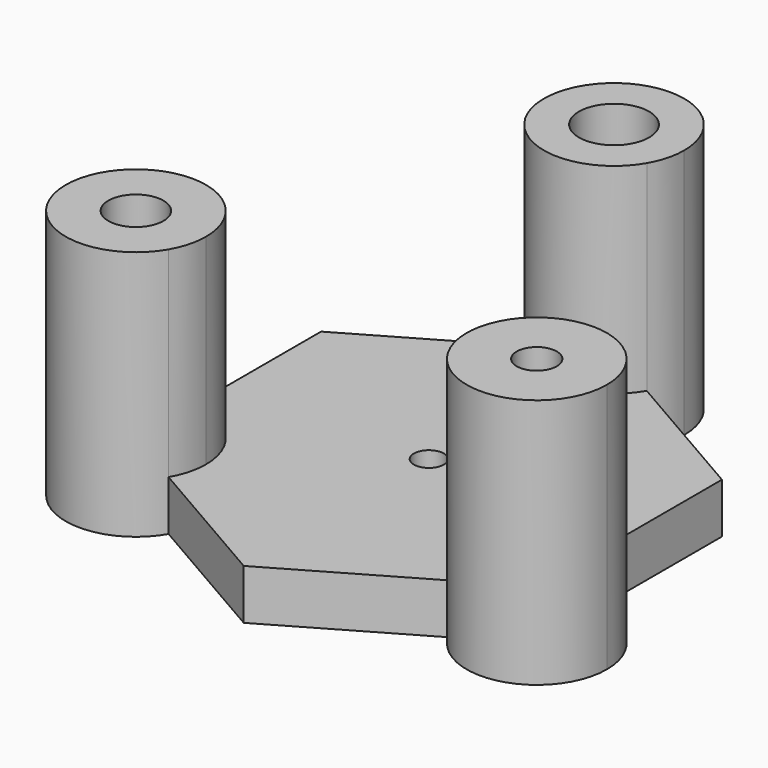
from build123d import *

# Parameters (mm, degrees)
F1_DEPTH = 5
F2_DEPTH = 25
F3_D     = 7
F4_D     = 5.5
F5_D     = 4
F6_D     = 3


with BuildPart() as f1:
    # F0 (on Top) → F1 (new body)
    with BuildSketch(Plane.XY):
        with BuildLine():
            Line((20, -4.5470053838), (20, 11.5470053838))
            Line((20, 11.5470053838), (6.0621778265, 19.5940107676))
            ThreePointArc((6.0621778265, 19.5940107676), (0, 16.0940107676), (-6.0621778265, 19.5940107676))
            Line((-6.0621778265, 19.5940107676), (-20, 11.5470053838))
            Line((-20, 11.5470053838), (-20, -4.5470053838))
            ThreePointArc((-20, -4.5470053838), (-15.0502525317, -6.5972579155), (-13, -11.5470053838))
            ThreePointArc((-13, -11.5470053838), (-13.238519216, -13.3587386995), (-13.9378221735, -15.0470053838))
            Line((-13.9378221735, -15.0470053838), (0, -23.0940107676))
            Line((0, -23.0940107676), (13.9378221735, -15.0470053838))
            ThreePointArc((13.9378221735, -15.0470053838), (13.9378221735, -8.0470053838), (20, -4.5470053838))
        make_face()
    extrude(amount=F1_DEPTH)

    # F0 (on Top) → F2 (join)
    with BuildSketch(Plane.XY):
        with BuildLine():
            ThreePointArc((-20, -4.5470053838), (-26.0621778265, -15.0470053838), (-13.9378221735, -15.0470053838))
            Line((-13.9378221735, -15.0470053838), (-20, -11.5470053838))
            Line((-20, -11.5470053838), (-20, -4.5470053838))
        make_face()
        with BuildLine():
            Line((-20, -11.5470053838), (-13.9378221735, -15.0470053838))
            ThreePointArc((-13.9378221735, -15.0470053838), (-13.238519216, -13.3587386995), (-13, -11.5470053838))
            ThreePointArc((-13, -11.5470053838), (-15.0502525317, -6.5972579155), (-20, -4.5470053838))
            Line((-20, -4.5470053838), (-20, -11.5470053838))
        make_face()
        with BuildLine():
            Line((0, 23.0940107676), (6.0621778265, 19.5940107676))
            ThreePointArc((6.0621778265, 19.5940107676), (6.761480784, 21.2822774519), (7, 23.0940107676))
            ThreePointArc((7, 23.0940107676), (-1.8117333157, 29.8554915516), (-6.0621778265, 19.5940107676))
            Line((-6.0621778265, 19.5940107676), (0, 23.0940107676))
        make_face()
        with BuildLine():
            ThreePointArc((-6.0621778265, 19.5940107676), (0, 16.0940107676), (6.0621778265, 19.5940107676))
            Line((6.0621778265, 19.5940107676), (0, 23.0940107676))
            Line((0, 23.0940107676), (-6.0621778265, 19.5940107676))
        make_face()
        with BuildLine():
            ThreePointArc((27, -11.5470053838), (24.9497474683, -6.5972579155), (20, -4.5470053838))
            Line((20, -4.5470053838), (20, -11.5470053838))
            Line((20, -11.5470053838), (13.9378221735, -15.0470053838))
            ThreePointArc((13.9378221735, -15.0470053838), (21.8117333157, -18.3084861678), (27, -11.5470053838))
        make_face()
        with BuildLine():
            Line((20, -11.5470053838), (20, -4.5470053838))
            ThreePointArc((20, -4.5470053838), (13.9378221735, -8.0470053838), (13.9378221735, -15.0470053838))
            Line((13.9378221735, -15.0470053838), (20, -11.5470053838))
        make_face()
    extrude(amount=F2_DEPTH)

    # F3 (through all)
    with Locations(Plane(origin=(0, 0, 0), x_dir=(1, 0, 0), z_dir=(0, 0, -1))):
        with Locations((0, -23.0940107676)):
            Hole(F3_D / 2)

    # F4 (through all)
    with Locations(Plane(origin=(0, 0, 0), x_dir=(1, 0, 0), z_dir=(0, 0, -1))):
        with Locations((-20, 11.5470053838)):
            Hole(F4_D / 2)

    # F5 (through all)
    with Locations(Plane(origin=(0, 0, 0), x_dir=(1, 0, 0), z_dir=(0, 0, -1))):
        with Locations((20, 11.5470053838)):
            Hole(F5_D / 2)

    # F6 (through all)
    with Locations(Plane(origin=(0, 0, 0), x_dir=(1, 0, 0), z_dir=(0, 0, -1))):
        with Locations((0, 0)):
            Hole(F6_D / 2)


solid = f1.part
